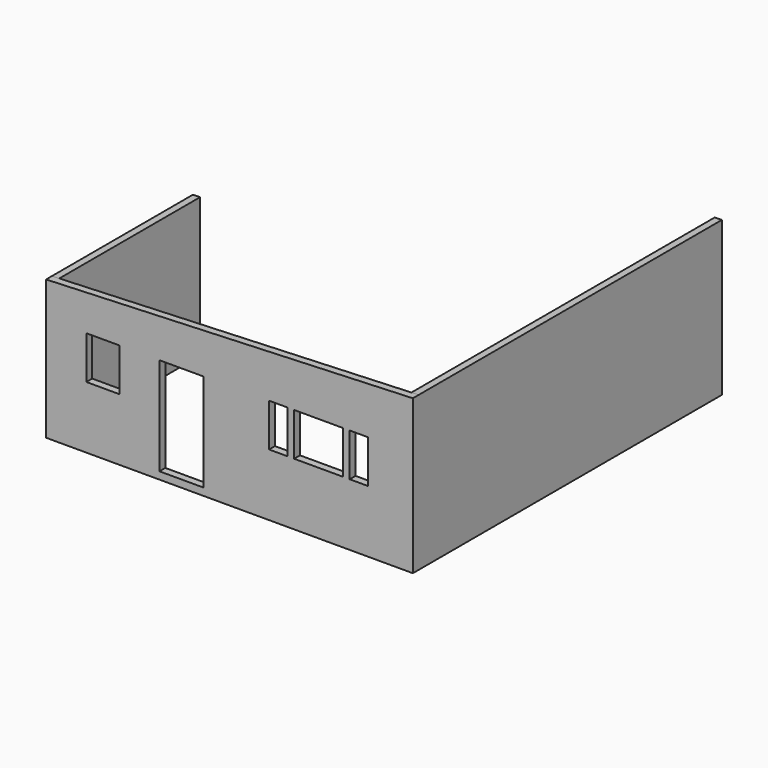
from build123d import *

# Parameters (mm, degrees)
F0_W     = 11.016868
F0_H     = 24.481927
F0_W_2   = 8.267472
F0_H_2   = 10.750423
F0_W_3   = 4.593041
F0_W_4   = 12.248872
F0_W_5   = 4.59304
F1_DEPTH = 1.836145
F3_DEPTH = 44.06747
F5_DEPTH = 50.8


with BuildPart() as f1:
    # F0 (on Front) → F1 (new body)
    with BuildSketch(Plane.XZ):
        Polygon((-42.930589, 34.886747), (-42.930589, 0), (48.876639, 0), (48.876639, 38.559036), align=None)
        with Locations((-9.046323, 14.077108)):
            Rectangle(F0_W, F0_H, mode=Mode.SUBTRACT)
        with Locations((-28.720862, 20.94286)):
            Rectangle(F0_W_2, F0_H_2, mode=Mode.SUBTRACT)
        with Locations((15.188605, 20.94286)):
            Rectangle(F0_W_3, F0_H_2, mode=Mode.SUBTRACT)
        with Locations((25.274628, 20.94286)):
            Rectangle(F0_W_4, F0_H_2, mode=Mode.SUBTRACT)
        with Locations((35.360651, 20.94286)):
            Rectangle(F0_W_5, F0_H_2, mode=Mode.SUBTRACT)
    extrude(amount=F1_DEPTH)

    # F2 (on face) → F3 (join)
    with BuildSketch(Plane(origin=(0, 0, 0), x_dir=(-1, 0, 0), z_dir=(0, 1, 0))):
        Polygon((42.930589, 0), (42.930589, 34.886747), (41.094445, 34.960193), (41.094445, 0), align=None)
        Polygon((-47.047839, 38.485884), (-48.876639, 38.559036), (-48.876639, 0), (-47.047839, 0), align=None)
    extrude(amount=F3_DEPTH)

    # F4 (on face) → F5 (join)
    with BuildSketch(Plane(origin=(0, 44.06747, 0), x_dir=(-1, 0, 0), z_dir=(0, 1, 0))):
        Polygon((-47.047839, 38.485884), (-48.876639, 38.559036), (-48.876639, 0), (-47.047839, 0), align=None)
    extrude(amount=F5_DEPTH)


solid = f1.part
